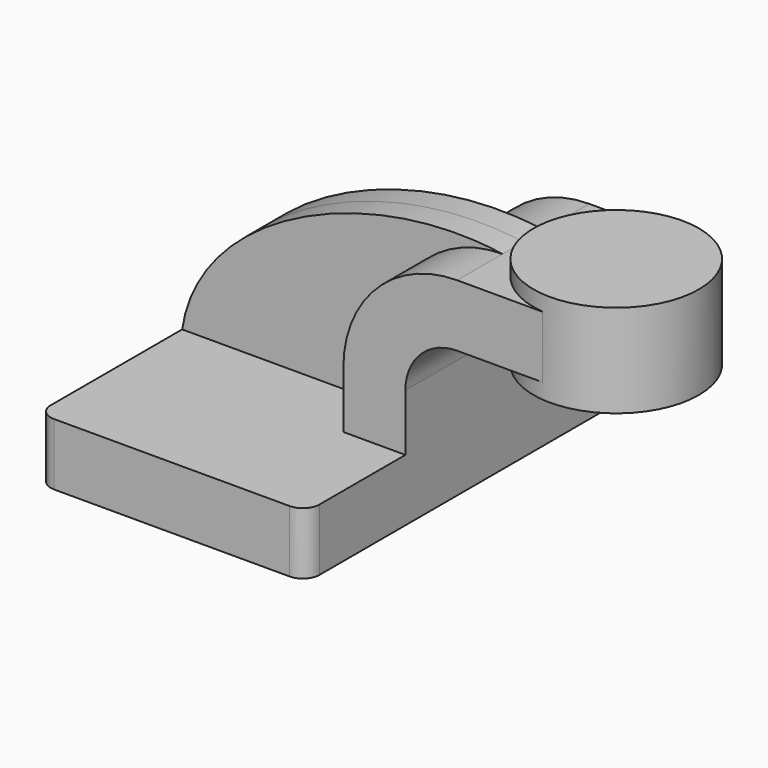
from build123d import *

# Parameters (mm, degrees)
F1_DEPTH = 63.5
F0_W     = 23.0290793641
F0_H     = 19.05
F2_DEPTH = 25.4
F3_DEPTH = 7.9375
F5_R     = 5.08


with BuildPart() as f1:
    # F0 (on Front) → F1 (new body, symmetric)
    with BuildSketch(Plane.XZ):
        Polygon((-41.275, 9.525), (-41.275, -9.525), (41.275, -9.525), (41.275, 9.525), (22.225, 9.525), align=None)
    extrude(amount=F1_DEPTH, both=True)

    # F0 (on Front) → F2 (join, symmetric)
    with BuildSketch(Plane.XZ):
        with Locations((71.839539682, 52.4002)):
            Rectangle(F0_W, F0_H)
        with BuildLine():
            Line((22.225, 9.525), (41.275, 9.525))
            Line((41.275, 9.525), (41.275, 27.0002))
            ThreePointArc((41.275, 27.0002), (45.9246798487, 38.2255201513), (57.15, 42.8752))
            Line((57.15, 42.8752), (60.325, 42.8752))
            Line((60.325, 42.8752), (60.325, 61.9252))
            Line((60.325, 61.9252), (57.15, 61.9252))
            ThreePointArc((57.15, 61.9252), (32.4542956671, 51.6959043329), (22.225, 27.0002))
            Line((22.225, 27.0002), (22.225, 9.525))
        make_face()
    extrude(amount=F2_DEPTH, both=True)

    # F0 (on Front) → F3 (join, symmetric)
    with BuildSketch(Plane.XZ):
        with BuildLine():
            add(Edge.make_bspline(
                [(-41.275, 9.525), (-36.1126549542, 44.8696576059), (15.9992650151, 68.1667476892), (57.15, 61.9252)],
                knots=[0, 0, 0, 0, 111.5045361635, 111.5045361635, 111.5045361635, 111.5045361635], degree=3))
            Line((-41.275, 9.525), (22.225, 9.525))
            Line((22.225, 9.525), (22.225, 27.0002))
            ThreePointArc((22.225, 27.0002), (32.4542956671, 51.6959043329), (57.15, 61.9252))
        make_face()
    extrude(amount=F3_DEPTH, both=True)

    # F0 (on Front) → F4 (revolve)
    with BuildSketch(Plane.XZ):
        Polygon((111.125, 66.675), (85.725, 66.675), (85.725, 52.3875), (85.725, 38.1), (111.125, 38.1), align=None)
    revolve(axis=Axis((85.725, 0, 45.24375), (0, 0, 1)))

    # F5
    f5_edges = [f1.edges().sort_by_distance(p)[0] for p in [
        (-41.275, -63.5, 0),
        (41.275, -63.5, 0),
        (41.275, 63.5, 0),
        (-41.275, 63.5, 0),
    ]]
    fillet(f5_edges, radius=F5_R)


solid = f1.part
